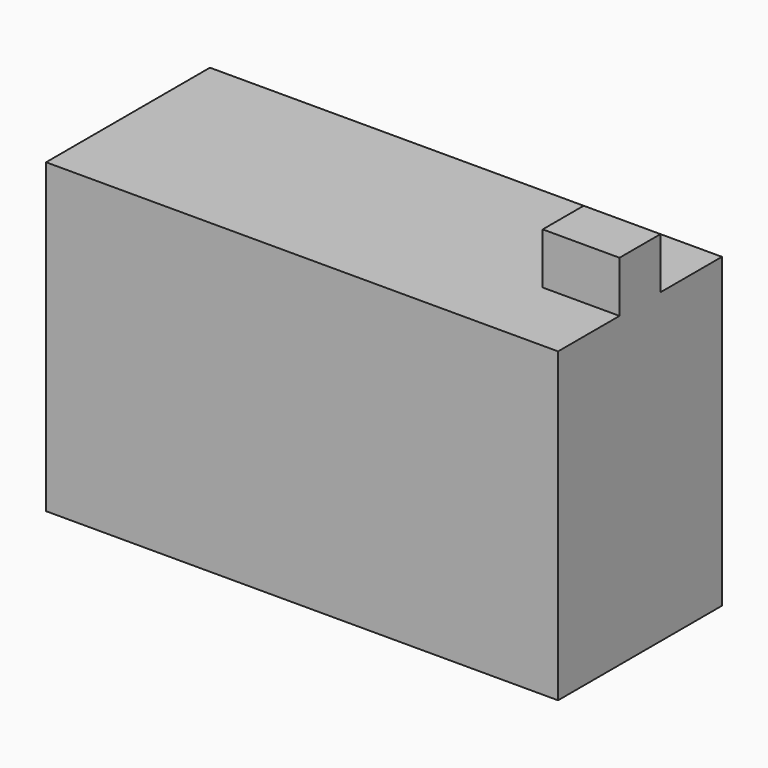
from build123d import *

# Parameters (mm, degrees)
F0_W     = 100
F0_H     = 40
F1_DEPTH = 30
F2_W     = 15
F2_H     = 10
F3_DEPTH = 10


with BuildPart() as f1:
    # F0 (on Top) → F1 (new body, symmetric)
    with BuildSketch(Plane.XY):
        with Locations((-50, 20)):
            Rectangle(F0_W, F0_H)
    extrude(amount=F1_DEPTH, both=True)

    # F2 (on face) → F3 (join)
    with BuildSketch(Plane.XY.offset(30)):
        with Locations((-7.5, 20)):
            Rectangle(F2_W, F2_H)
    extrude(amount=F3_DEPTH)


solid = f1.part
